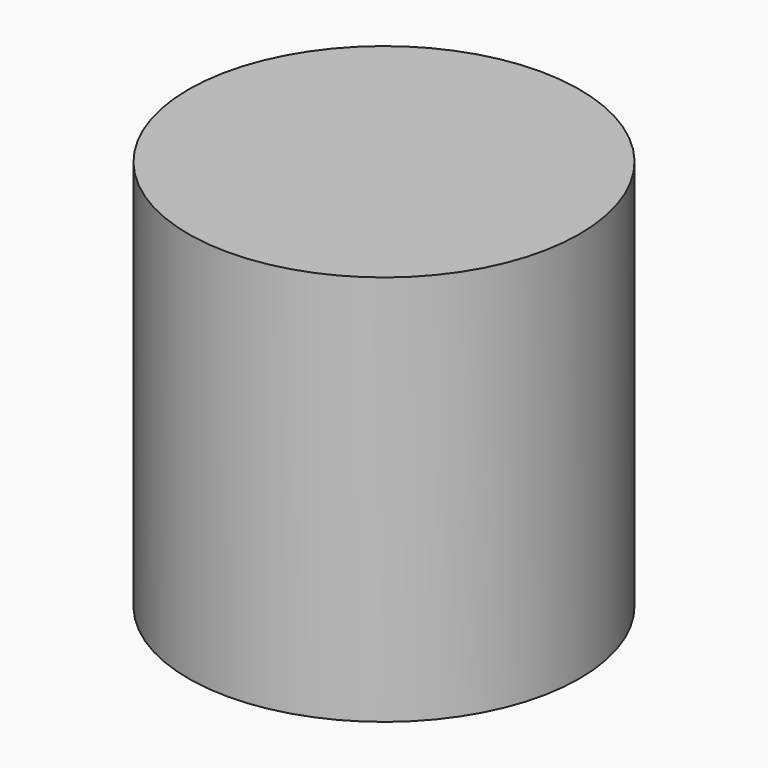
from build123d import *

# Parameters (mm, degrees)
CYLINDER_R        = 1.4224
CYLINDER_DEPTH    = 8
CYLINDER001_R     = 3.5
CYLINDER001_DEPTH = 5
CYLINDER002_R     = 2.5
CYLINDER002_DEPTH = 5
CYLINDER004_R     = 6
CYLINDER004_DEPTH = 20
CYLINDER003_R     = 7
CYLINDER003_DEPTH = 14


with BuildPart() as cone:
    # Cone → Cone (revolve)
    with BuildSketch(Plane(origin=(0, 0, 5), x_dir=(1, 0, 0), z_dir=(0, -1, 0))):
        Polygon((0, 0), (3.5, 0), (5, 5), (0, 5), align=None)
    revolve(axis=Axis((0, 0, 5), (0, 0, 1)))


with BuildPart() as cylinder:
    # Cylinder → Cylinder (new body)
    with BuildSketch(Plane.XY.offset(-3)):
        Circle(CYLINDER_R)
    extrude(amount=CYLINDER_DEPTH)


with BuildPart() as cylinder001:
    # Cylinder001 → Cylinder001 (new body)
    with BuildSketch(Plane.XY):
        Circle(CYLINDER001_R)
    extrude(amount=CYLINDER001_DEPTH)


with BuildPart() as cut:
    # Cylinder002 → Cylinder002 (new body)
    with BuildSketch(Plane.XY.offset(-1.5)):
        Circle(CYLINDER002_R)
    extrude(amount=CYLINDER002_DEPTH)

    # Fusion: union Cylinder001
    add(cylinder001.part)

    # Cut: cut Cylinder
    add(cylinder.part, mode=Mode.SUBTRACT)


with BuildPart() as cylinder004:
    # Cylinder004 → Cylinder004 (new body)
    with BuildSketch(Plane.XY.offset(-11)):
        Circle(CYLINDER004_R)
    extrude(amount=CYLINDER004_DEPTH)


with BuildPart() as cut001:
    # Cylinder003 → Cylinder003 (new body)
    with BuildSketch(Plane.XY.offset(-3)):
        Circle(CYLINDER003_R)
    extrude(amount=CYLINDER003_DEPTH)

    # Cut001: cut Cylinder004
    add(cylinder004.part, mode=Mode.SUBTRACT)


solid = Compound([cone.part, cut.part, cut001.part])
